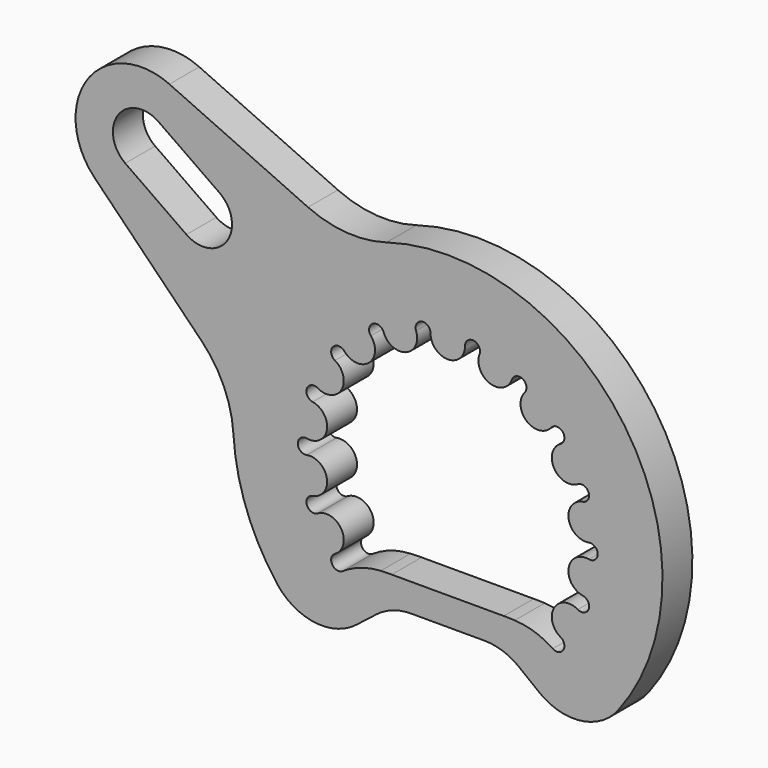
from build123d import *

# Parameters (mm, degrees)
F1_DEPTH = 4


with BuildPart() as f1:
    # F0 (on Front) → F1 (new body)
    with BuildSketch(Plane.XZ):
        with BuildLine():
            ThreePointArc((-26.381971, 6.326054), (-23.972685, 2.787165), (-22.959026, -1.372268))
            ThreePointArc((-22.959026, -1.372268), (-21.551931, -8.032077), (-18.25719, -13.988388))
            ThreePointArc((-18.25719, -13.988388), (-14.253779, -16.291001), (-9.800476, -15.067308))
            Line((-9.800476, -15.067308), (-7.628003, -13.369986))
            ThreePointArc((-7.628003, -13.369986), (-5.887443, -12.424939), (-3.934034, -12.098051))
            Line((-3.934034, -12.098051), (3.934034, -12.098051))
            ThreePointArc((3.934034, -12.098051), (5.887443, -12.424939), (7.628003, -13.369986))
            Line((7.628003, -13.369986), (9.800476, -15.067308))
            ThreePointArc((9.800476, -15.067308), (14.253779, -16.291001), (18.25719, -13.988388))
            ThreePointArc((18.25719, -13.988388), (18.941172, 13.047299), (-6.562939, 22.043771))
            ThreePointArc((-6.562939, 22.043771), (-10.818219, 21.573689), (-14.967711, 22.627305))
            Line((-14.967711, 22.627305), (-29.819204, 29.402617))
            ThreePointArc((-29.819204, 29.402617), (-38.582061, 27.01545), (-37.828191, 17.964599))
            Line((-37.828191, 17.964599), (-26.381971, 6.326054))
        make_face()
        with BuildLine():
            ThreePointArc((11.244166, -10.473286), (9.304982, -9.523645), (7.182465, -9.127198))
            ThreePointArc((7.182465, -9.127198), (6.591412, -9.105339), (6, -9.098051))
            Line((6, -9.098051), (-6, -9.098051))
            ThreePointArc((-6, -9.098051), (-6.591412, -9.105339), (-7.182465, -9.127198))
            ThreePointArc((-7.182465, -9.127198), (-9.304982, -9.523645), (-11.244166, -10.473286))
            ThreePointArc((-11.244166, -10.473286), (-12.370984, -10.228297), (-12.082394, -9.11185))
            ThreePointArc((-12.082394, -9.11185), (-11.388234, -6.575), (-13.932291, -5.907735))
            ThreePointArc((-13.932291, -5.907735), (-15.091357, -5.492805), (-14.470173, -4.429916))
            ThreePointArc((-14.470173, -4.429916), (-12.950222, -2.283474), (-15.112635, -0.786331))
            ThreePointArc((-15.112635, -0.786331), (-16.059887, 0), (-15.112635, 0.786331))
            ThreePointArc((-15.112635, 0.786331), (-12.950222, 2.283474), (-14.470173, 4.429916))
            ThreePointArc((-14.470173, 4.429916), (-15.091357, 5.492805), (-13.932291, 5.907735))
            ThreePointArc((-13.932291, 5.907735), (-11.388234, 6.575), (-12.082394, 9.11185))
            ThreePointArc((-12.082394, 9.11185), (-12.302587, 10.323096), (-11.071506, 10.316579))
            ThreePointArc((-11.071506, 10.316579), (-8.452657, 10.073484), (-8.237301, 12.69476))
            ThreePointArc((-8.237301, 12.69476), (-8.029943, 13.90827), (-6.875335, 13.481092))
            ThreePointArc((-6.875335, 13.481092), (-4.497565, 12.356958), (-3.398667, 14.746495))
            ThreePointArc((-3.398667, 14.746495), (-2.78877, 15.815901), (-1.849896, 15.019585))
            ThreePointArc((-1.849896, 15.019585), (0, 13.15), (1.849896, 15.019585))
            ThreePointArc((1.849896, 15.019585), (2.78877, 15.815901), (3.398667, 14.746495))
            ThreePointArc((3.398667, 14.746495), (4.497565, 12.356958), (6.875335, 13.481092))
            ThreePointArc((6.875335, 13.481092), (8.029943, 13.90827), (8.237301, 12.69476))
            ThreePointArc((8.237301, 12.69476), (8.452657, 10.073484), (11.071506, 10.316579))
            ThreePointArc((11.071506, 10.316579), (12.302587, 10.323096), (12.082394, 9.11185))
            ThreePointArc((12.082394, 9.11185), (11.388234, 6.575), (13.932291, 5.907735))
            ThreePointArc((13.932291, 5.907735), (15.091357, 5.492805), (14.470173, 4.429916))
            ThreePointArc((14.470173, 4.429916), (12.950222, 2.283474), (15.112635, 0.786331))
            ThreePointArc((15.112635, 0.786331), (16.059887, 0), (15.112635, -0.786331))
            ThreePointArc((15.112635, -0.786331), (12.950222, -2.283474), (14.470173, -4.429916))
            ThreePointArc((14.470173, -4.429916), (15.091357, -5.492805), (13.932291, -5.907735))
            ThreePointArc((13.932291, -5.907735), (11.388234, -6.575), (12.082394, -9.11185))
            ThreePointArc((12.082394, -9.11185), (12.370984, -10.228297), (11.244166, -10.473286))
        make_face(mode=Mode.SUBTRACT)
        with BuildLine():
            ThreePointArc((-34.544169, 20.403686), (-35.305453, 24.721144), (-30.987995, 25.482429))
            Line((-30.987995, 25.482429), (-24.434778, 20.893817))
            ThreePointArc((-24.434778, 20.893817), (-23.673494, 16.576359), (-27.990952, 15.815075))
            Line((-27.990952, 15.815075), (-34.544169, 20.403686))
        make_face(mode=Mode.SUBTRACT)
    extrude(amount=F1_DEPTH)


solid = f1.part
